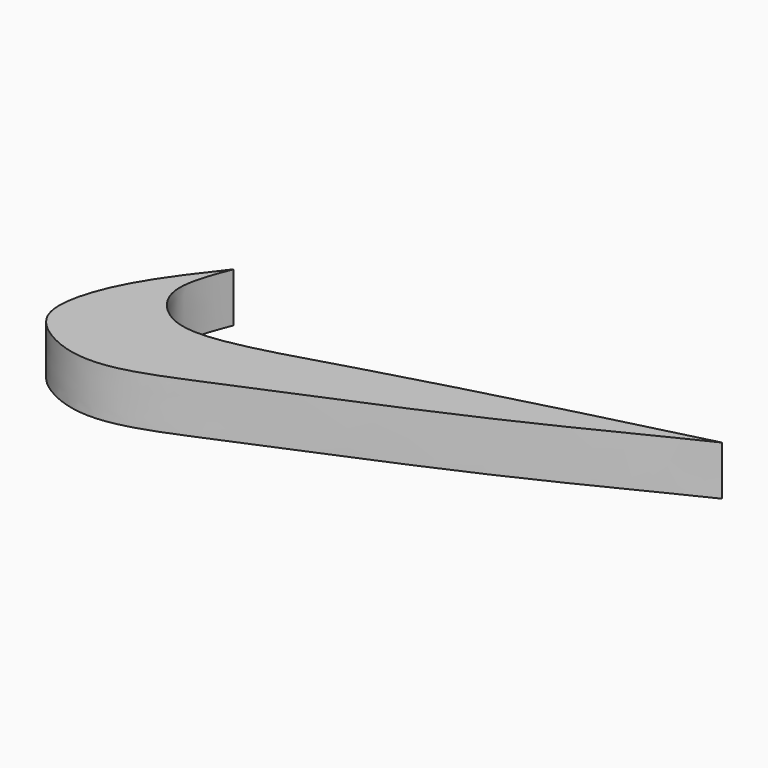
from build123d import *

# Parameters (mm, degrees)
F1_DEPTH = 12.7


with BuildPart() as f1:
    # F0 (on Top) → F1 (new body)
    with BuildSketch(Plane.XY):
        with BuildLine():
            add(Edge.make_bspline(
                [(81.6325098276, 7.5041064993), (77.7506593427, 6.5459552624), (66.1300490993, 3.677657753), (8.8036319991, -11.0962675327), (-22.0395238831, -21.2988834281), (-37.9418884294, -21.4344074305), (-47.8469256739, -10.1924897863), (-43.9544040986, -0.2340770501), (-41.8810248375, 5.0703422166)],
                knots=[0, 0, 0, 0, 0.1357084094, 0.4062532904, 0.6109394746, 0.7410157551, 0.8620502027, 1, 1, 1, 1], degree=3))
            add(Edge.make_bspline(
                [(-41.8810248375, 5.0703422166), (-46.4244312383, -0.7450474512), (-54.8396142654, -11.5161658834), (-60.3669995915, -26.9650004922), (-58.3642446536, -36.9883620156), (-46.038619175, -44.2647563129), (-31.6997764266, -43.7151669788), (-10.2660699441, -34.1483875268), (36.5833232727, -15.2129164217), (71.7858051169, 2.7688314707), (79.1808308356, 6.3250953833), (81.6325098276, 7.5041064993)],
                knots=[0, 0, 0, 0, 0.1151845258, 0.2133418807, 0.2877871749, 0.376822669, 0.4676031838, 0.5859368431, 0.7668391128, 0.9226999783, 1, 1, 1, 1], degree=3))
        make_face()
    extrude(amount=F1_DEPTH)


solid = f1.part
